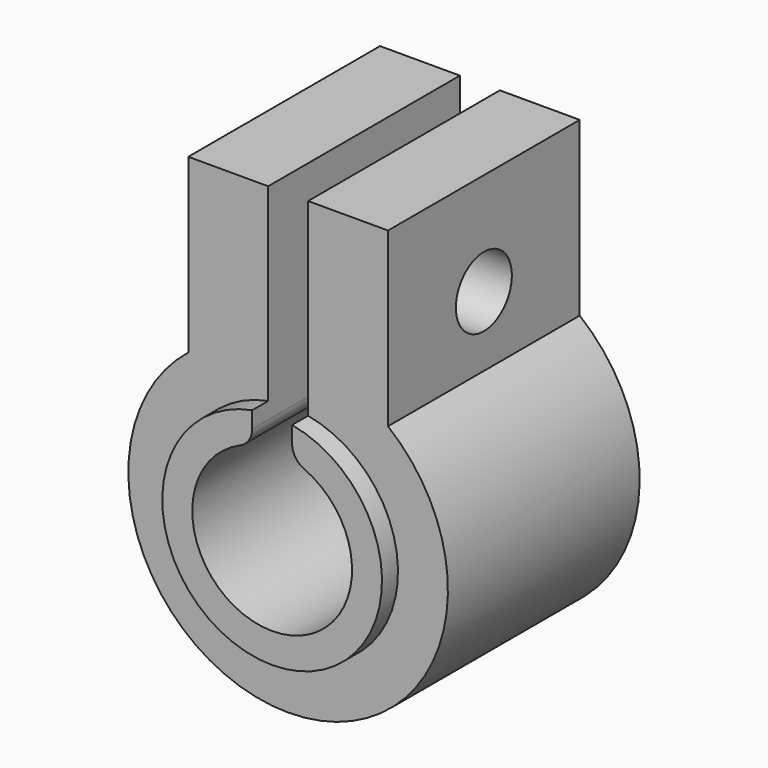
from build123d import *

# Parameters (mm, degrees)
F1_DEPTH = 12
F3_DEPTH = 1
F4_R     = 1
F5_R     = 1.75
F6_DEPTH = 11.8
F7_R     = 2.25
F8_DEPTH = 4.8


with BuildPart() as f1:
    # F0 (on Front) → F1 (new body)
    with BuildSketch(Plane.XZ):
        with BuildLine():
            ThreePointArc((1, 3.872983), (0, -4), (-1, 3.872983))
            Line((-1, 3.872983), (-1, 14.872983))
            Line((-1, 14.872983), (-5, 14.872983))
            Line((-5, 14.872983), (-5, 6.244998))
            ThreePointArc((-5, 6.244998), (0, -8), (5, 6.244998))
            Line((5, 6.244998), (5, 14.872983))
            Line((5, 14.872983), (1, 14.872983))
            Line((1, 14.872983), (1, 3.872983))
        make_face()
    extrude(amount=F1_DEPTH)

    # F2 (on face) → F3 (join)
    with BuildSketch(Plane.XZ.offset(12)):
        with BuildLine():
            ThreePointArc((1, 3.872983), (0, -4), (-1, 3.872983))
            Line((-1, 3.872983), (-1, 5.408327))
            ThreePointArc((-1, 5.408327), (0, -5.5), (1, 5.408327))
            Line((1, 5.408327), (1, 3.872983))
        make_face()
    extrude(amount=F3_DEPTH)

    # F4
    f4_edges = [f1.edges().sort_by_distance(p)[0] for p in [
        (-1, -6.5, 3.872983),
        (1, -6.5, 3.872983),
    ]]
    fillet(f4_edges, radius=F4_R)

    # F5 (on face) → F6 (cut)
    with BuildSketch(Plane(origin=(-5, 0, 0), x_dir=(0, -1, 0), z_dir=(-1, 0, 0))):
        with Locations((6, 9.744998)):
            Circle(F5_R)
    extrude(amount=-F6_DEPTH, mode=Mode.SUBTRACT)

    # F7 (on face) → F8 (cut)
    with BuildSketch(Plane(origin=(-5, 0, 0), x_dir=(0, -1, 0), z_dir=(-1, 0, 0))):
        with Locations((6, 9.744998)):
            Circle(F7_R)
    extrude(amount=-F8_DEPTH, mode=Mode.SUBTRACT)


solid = f1.part
